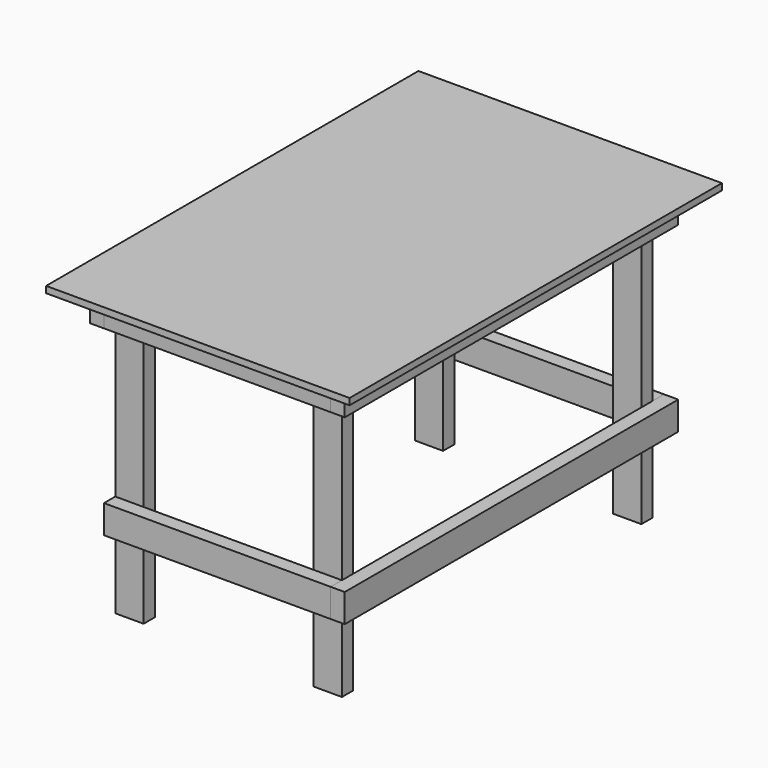
from build123d import *

# Parameters (mm, degrees)
F0_W     = 750
F0_H     = 1150
F1_DEPTH = 16
F2_W     = 70
F2_H     = 35
F3_DEPTH = 704
F4_DEPTH = 70
F5_DEPTH = 70


with BuildPart() as f1:
    # F0 (on Top) → F1 (new body)
    with BuildSketch(Plane.XY):
        Rectangle(F0_W, F0_H)
    extrude(amount=F1_DEPTH)


with BuildPart() as f3:
    # F2 (on Top) → F3 (new body)
    with BuildSketch(Plane.XY):
        with Locations((245, -462.5)):
            Rectangle(F2_W, F2_H)
    extrude(amount=-F3_DEPTH)


with BuildPart() as f3b:
    # F2 (on Top) → F3, piece 2 (new body)
    with BuildSketch(Plane.XY):
        with Locations((-245, -462.5)):
            Rectangle(F2_W, F2_H)
    extrude(amount=-F3_DEPTH)


with BuildPart() as f3c:
    # F2 (on Top) → F3, piece 3 (new body)
    with BuildSketch(Plane.XY):
        with Locations((-245, 462.5)):
            Rectangle(F2_W, F2_H)
    extrude(amount=-F3_DEPTH)


with BuildPart() as f3d:
    # F2 (on Top) → F3, piece 4 (new body)
    with BuildSketch(Plane.XY):
        with Locations((245, 462.5)):
            Rectangle(F2_W, F2_H)
    extrude(amount=-F3_DEPTH)


with BuildPart() as f4:
    # F2 (on Top) → F4 (new body)
    with BuildSketch(Plane.XY):
        Polygon((-280, -515), (280, -515), (280, -480), (210, -480), (-210, -480), (-280, -480), align=None)
    extrude(amount=-F4_DEPTH)


with BuildPart() as f4b:
    # F2 (on Top) → F4, piece 2 (new body)
    with BuildSketch(Plane.XY):
        Polygon((280, 480), (280, 515), (-280, 515), (-280, 480), (-210, 480), (210, 480), align=None)
    extrude(amount=-F4_DEPTH)


with BuildPart() as f5:
    # F2 (on Top) → F5 (new body)
    with BuildSketch(Plane.XY):
        Polygon((280, -515), (315, -515), (315, 515), (280, 515), (280, 480), (280, 445), (280, -445), (280, -480), align=None)
    extrude(amount=-F5_DEPTH)


with BuildPart() as f5b:
    # F2 (on Top) → F5, piece 2 (new body)
    with BuildSketch(Plane.XY):
        Polygon((-315, -515), (-280, -515), (-280, -480), (-280, -445), (-280, 445), (-280, 480), (-280, 515), (-315, 515), align=None)
    extrude(amount=-F5_DEPTH)


with BuildPart() as f6_1:
    # F6: copy of F4
    add(f4.part.moved(Location((0, 0, -450))))


with BuildPart() as f6_2:
    # F6: copy of F4b
    add(f4b.part.moved(Location((0, 0, -450))))


with BuildPart() as f6_3:
    # F6: copy of F5
    add(f5.part.moved(Location((0, 0, -450))))


with BuildPart() as f7_1:
    # F7: copy of F4b
    add(f4b.part.moved(Location((0, -496, 0))))


solid = Compound([f1.part, f3.part, f3b.part, f3c.part, f3d.part, f4.part, f4b.part, f5.part, f5b.part, f6_1.part, f6_2.part, f6_3.part, f7_1.part])
